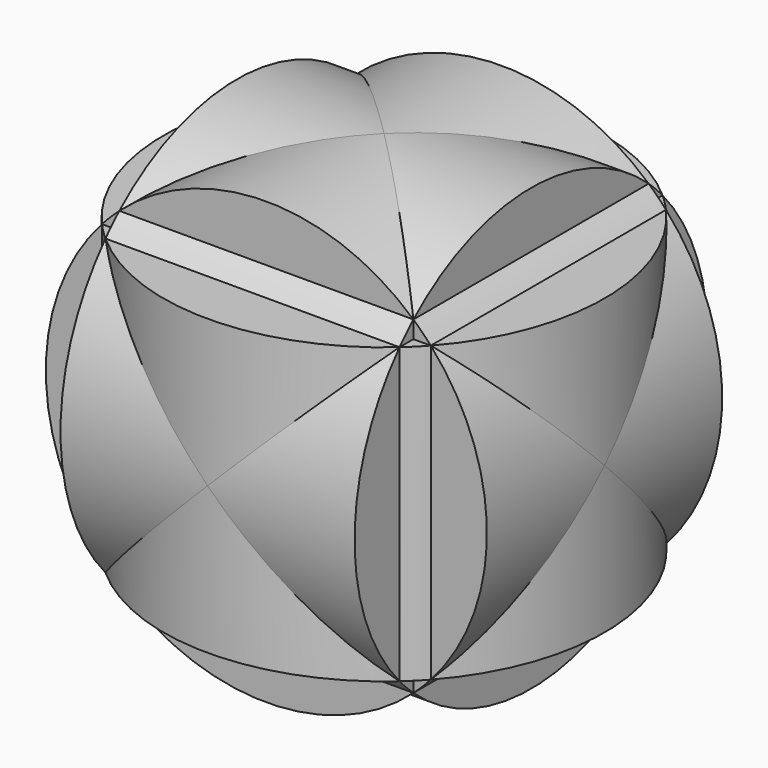
from build123d import *

# Parameters (mm, degrees)
F0_R      = 38.1
F1_DEPTH  = 25.4
F2_R      = 38.1
F3_DEPTH  = 25.4
F4_R      = 38.1
F5_DEPTH  = 25.4
F6_R      = 38.1
F7_DEPTH  = 25.4
F8_R      = 38.1
F9_DEPTH  = 25.4
F10_R     = 38.1
F11_DEPTH = 25.4


with BuildPart() as f1:
    # F0 (on Front) → F1 (new body)
    with BuildSketch(Plane.XZ):
        Circle(F0_R)
    extrude(amount=F1_DEPTH)

    # F2 (on Top) → F3 (join)
    with BuildSketch(Plane.XY):
        Circle(F2_R)
    extrude(amount=F3_DEPTH)

    # F4 (on Right) → F5 (join)
    with BuildSketch(Plane.YZ):
        Circle(F4_R)
    extrude(amount=F5_DEPTH)

    # F6 (on Top) → F7 (join)
    with BuildSketch(Plane.XY):
        Circle(F6_R)
    extrude(amount=-F7_DEPTH)

    # F8 (on Front) → F9 (join)
    with BuildSketch(Plane.XZ):
        Circle(F8_R)
    extrude(amount=-F9_DEPTH)

    # F10 (on Right) → F11 (join)
    with BuildSketch(Plane.YZ):
        Circle(F10_R)
    extrude(amount=-F11_DEPTH)


solid = f1.part
